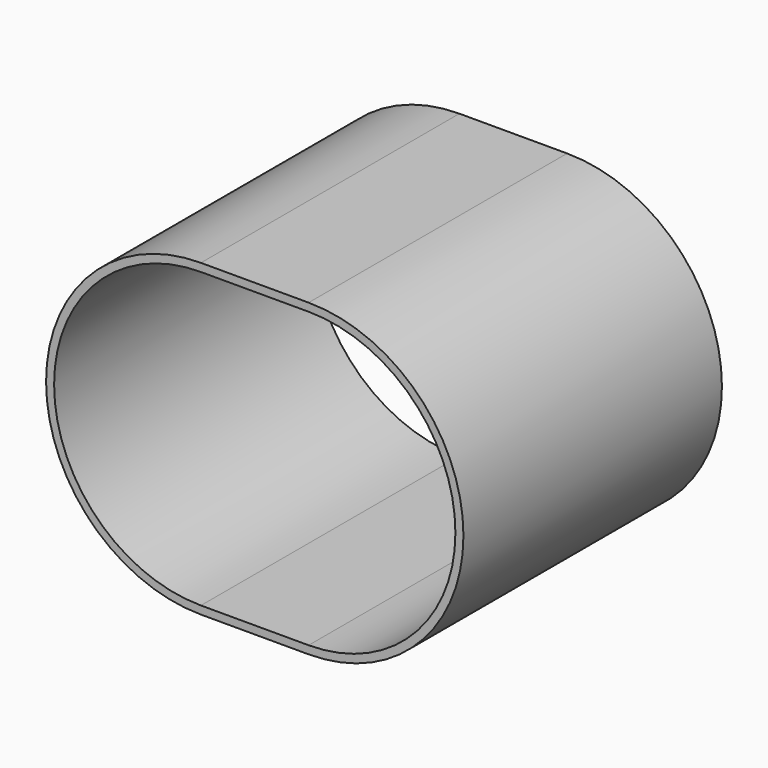
from build123d import *

# Parameters (mm, degrees)
F1_DEPTH = 152.4


with BuildPart() as f1:
    # F0 (on Front) → F1 (new body)
    with BuildSketch(Plane.XZ):
        with BuildLine():
            Line((-50.8, -73.025), (-25.4, -73.025))
            Line((-25.4, -73.025), (-25.4, -69.240349))
            Line((-25.4, -69.240349), (-50.8, -69.240349))
            ThreePointArc((-50.8, -69.240349), (-120.040349, 0), (-50.8, 69.240349))
            Line((-50.8, 69.240349), (-25.4, 69.240349))
            Line((-25.4, 69.240349), (-25.4, 73.025))
            Line((-25.4, 73.025), (-50.8, 73.025))
            ThreePointArc((-50.8, 73.025), (-123.825, 0), (-50.8, -73.025))
        make_face()
        with BuildLine():
            Line((-25.4, -73.025), (0, -73.025))
            ThreePointArc((0, -73.025), (73.025, 0), (0, 73.025))
            Line((0, 73.025), (-25.4, 73.025))
            Line((-25.4, 73.025), (-25.4, 69.240349))
            Line((-25.4, 69.240349), (0, 69.240349))
            ThreePointArc((0, 69.240349), (69.240349, 0), (0, -69.240349))
            Line((0, -69.240349), (-25.4, -69.240349))
            Line((-25.4, -69.240349), (-25.4, -73.025))
        make_face()
    extrude(amount=F1_DEPTH)


solid = f1.part
